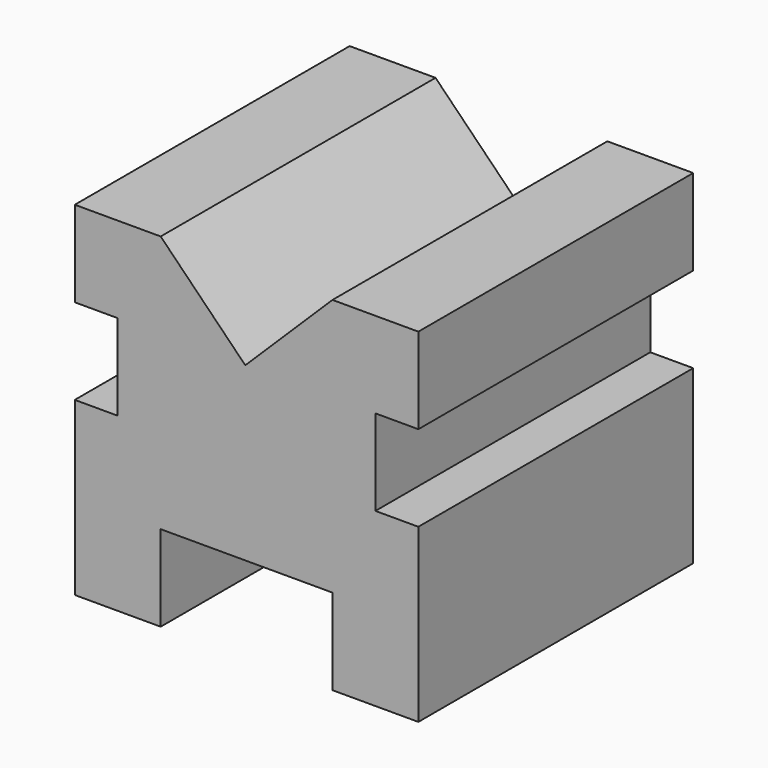
from build123d import *

# Parameters (mm, degrees)
F1_DEPTH = 101.6


with BuildPart() as f1:
    # F0 (on Front) → F1 (new body)
    with BuildSketch(Plane.XZ):
        Polygon((-25.4, 0), (0, 0), (0, 50.8), (-12.7, 50.8), (-12.7, 76.2), (0, 76.2), (0, 101.6), (-25.4, 101.6), (-51.17809, 76.2), (-76.2, 101.6), (-101.6, 101.6), (-101.6, 76.2), (-88.9, 76.2), (-88.9, 50.8), (-101.6, 50.8), (-101.6, 0), (-76.2, 0), (-76.2, 25.4), (-25.4, 25.4), align=None)
    extrude(amount=F1_DEPTH)


solid = f1.part
